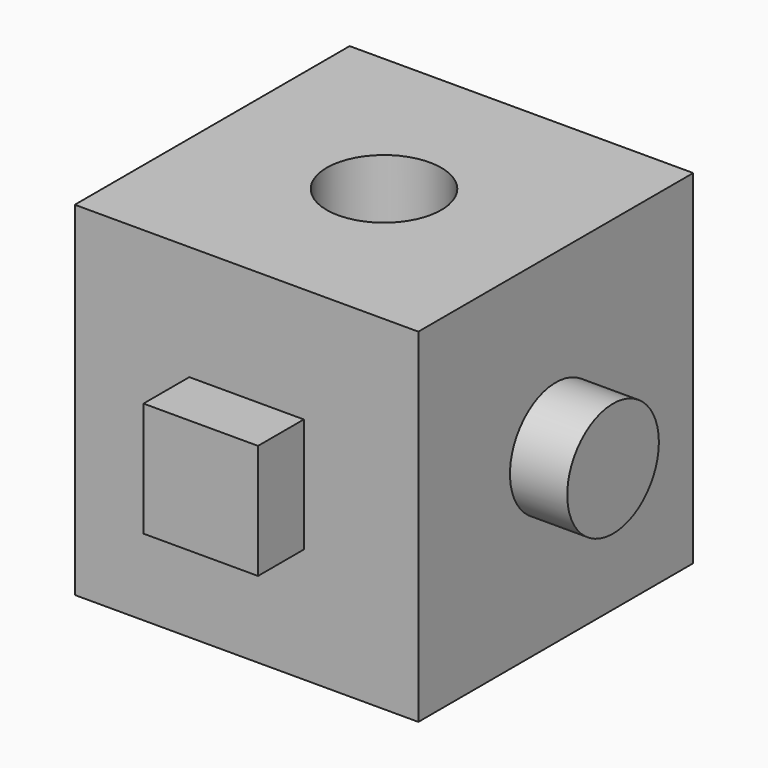
from build123d import *

# Parameters (mm, degrees)
F0_W     = 76.2
F0_H     = 76.2
F1_DEPTH = 76.2
F2_R     = 12.7
F3_DEPTH = 12.7
F5_W     = 25.4
F5_H     = 25.4
F6_DEPTH = 12.7
F7_D     = 25.4


with BuildPart() as f1:
    # F0 (on Front) → F1 (new body)
    with BuildSketch(Plane.XZ):
        with Locations((-29.504114, -10.776042)):
            Rectangle(F0_W, F0_H)
    extrude(amount=F1_DEPTH)

    # F2 (on face) → F3 (join)
    with BuildSketch(Plane.YZ.offset(8.595886)):
        with Locations((-38.1, -10.776042)):
            Circle(F2_R)
    extrude(amount=F3_DEPTH)

    # F5 (on face) → F6 (join)
    with BuildSketch(Plane.XZ.offset(76.2)):
        with Locations((-29.504114, -10.776042)):
            Rectangle(F5_W, F5_H)
    extrude(amount=F6_DEPTH)

    # F7 (through all)
    with Locations(Plane.XY.offset(27.323958)):
        with Locations((-29.504114, -38.1)):
            Hole(F7_D / 2)


solid = f1.part
